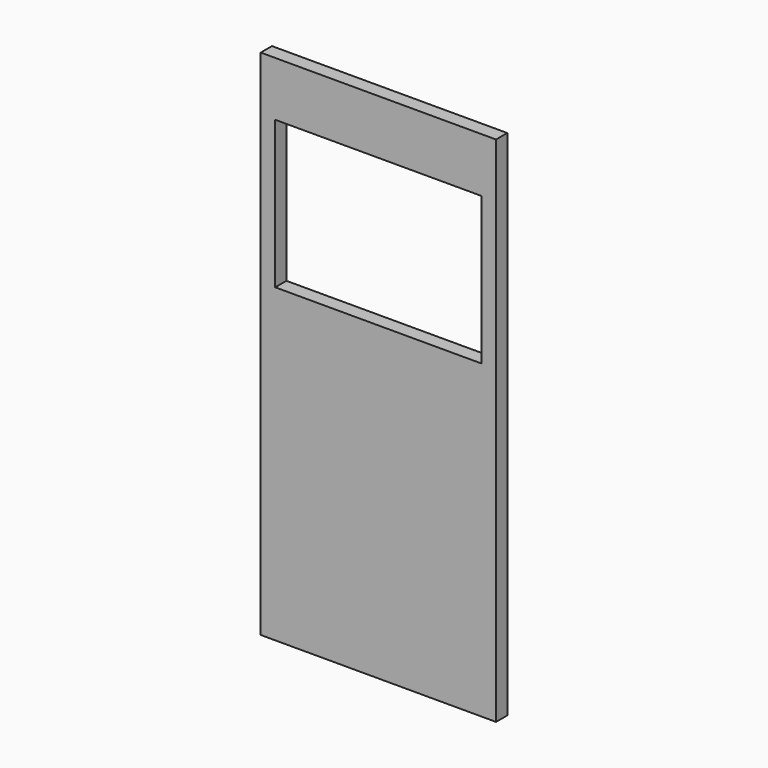
from build123d import *

# Parameters (mm, degrees)
F0_W     = 268
F0_H     = 584
F0_W_2   = 255
F0_H_2   = 188
F0_W_3   = 235
F0_H_3   = 168
F1_DEPTH = 16


with BuildPart() as f1:
    # F0 (on Front) → F1 (new body)
    with BuildSketch(Plane.XZ):
        Rectangle(F0_W, F0_H)
        with Locations((0, 146)):
            Rectangle(F0_W_2, F0_H_2, mode=Mode.SUBTRACT)
        with Locations((0, 146)):
            Rectangle(F0_W_2, F0_H_2)
        with Locations((0, 146)):
            Rectangle(F0_W_3, F0_H_3, mode=Mode.SUBTRACT)
    extrude(amount=F1_DEPTH)


solid = f1.part
